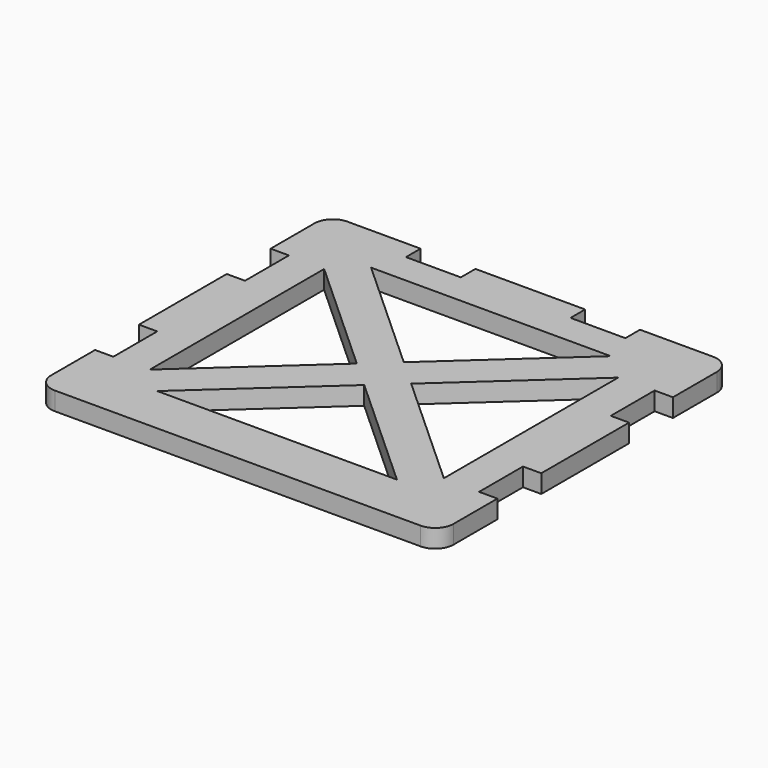
from build123d import *

# Parameters (mm, degrees)
F1_DEPTH = 5
F2_R     = 5
F3_R     = 5


with BuildPart() as f1:
    # F0 (on Top) → F1 (new body)
    with BuildSketch(Plane.XY):
        Polygon((-55, -30), (-55, -50), (55, -50), (55, -30), (50, -30), (50, -15), (55, -15), (55, 15), (50, 15), (50, 30), (55, 30), (55, 50), (30, 50), (30, 45), (15, 45), (15, 50), (-15, 50), (-15, 45), (-30, 45), (-30, 50), (-55, 50), (-55, 30), (-50, 30), (-50, 15), (-55, 15), (-55, -15), (-50, -15), (-50, -30), align=None)
        Polygon((-40.201199, -29.78924), (-40.201199, 29.78924), (-7.433034, 0), align=None, mode=Mode.SUBTRACT)
        Polygon((0, -6.757304), (32.768164, -36.546544), (-32.768164, -36.546544), align=None, mode=Mode.SUBTRACT)
        Polygon((-32.768164, 36.546544), (32.768164, 36.546544), (0, 6.757304), align=None, mode=Mode.SUBTRACT)
        Polygon((7.433034, 0), (40.201199, 29.78924), (40.201199, -29.78924), align=None, mode=Mode.SUBTRACT)
    extrude(amount=F1_DEPTH)

    # F2
    f2_edges = [f1.edges().sort_by_distance(p)[0] for p in [
        (55, 50, 2.5),
        (-55, 50, 2.5),
    ]]
    fillet(f2_edges, radius=F2_R)

    # F3
    f3_edges = [f1.edges().sort_by_distance(p)[0] for p in [
        (55, -50, 2.5),
        (-55, -50, 2.5),
    ]]
    fillet(f3_edges, radius=F3_R)


solid = f1.part
